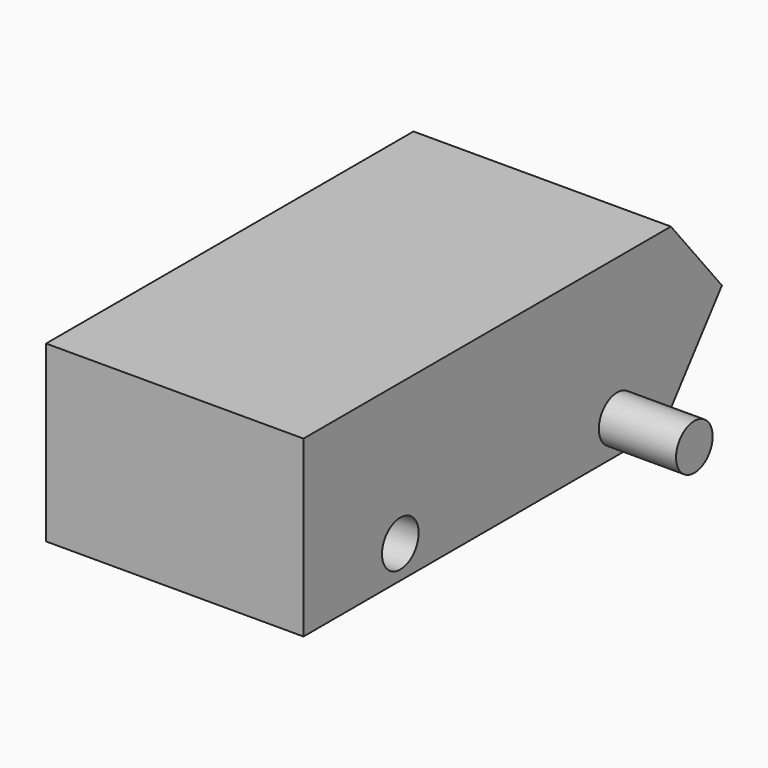
from build123d import *

# Parameters (mm, degrees)
F0_R     = 8.89
F1_DEPTH = 50
F3_DEPTH = 50
F4_DEPTH = 80


with BuildPart() as f1:
    # F0 (on Right) → F1 (new body)
    with BuildSketch(Plane.YZ):
        Polygon((-101.6, -50.8), (72.478287, -50.8), (101.6, -13.316209), (49.016677, 50.8), (-101.6, 50.8), align=None)
        with Locations((-54.578975, -38.1)):
            Circle(F0_R, mode=Mode.SUBTRACT)
        with Locations((50.709363, -38.1)):
            Circle(F0_R, mode=Mode.SUBTRACT)
    extrude(amount=F1_DEPTH)

    # F2 (on face) → F3 (cut)
    with BuildSketch(Plane.YZ.offset(50)):
        Polygon((-101.6, 50.8), (-101.6, 16.903477), (76.816072, 16.903477), (49.016677, 50.8), align=None)
    extrude(amount=-F3_DEPTH, mode=Mode.SUBTRACT)

    # F0 (on Right) → F4 (join)
    with BuildSketch(Plane.YZ):
        with Locations((50.709363, -38.1)):
            Circle(F0_R)
    extrude(amount=F4_DEPTH)

    # F5: F1 across plane


with BuildPart() as f1_1:
    add(f1.part)
    add(f1.part.mirror(Plane.YZ))


solid = f1_1.part
